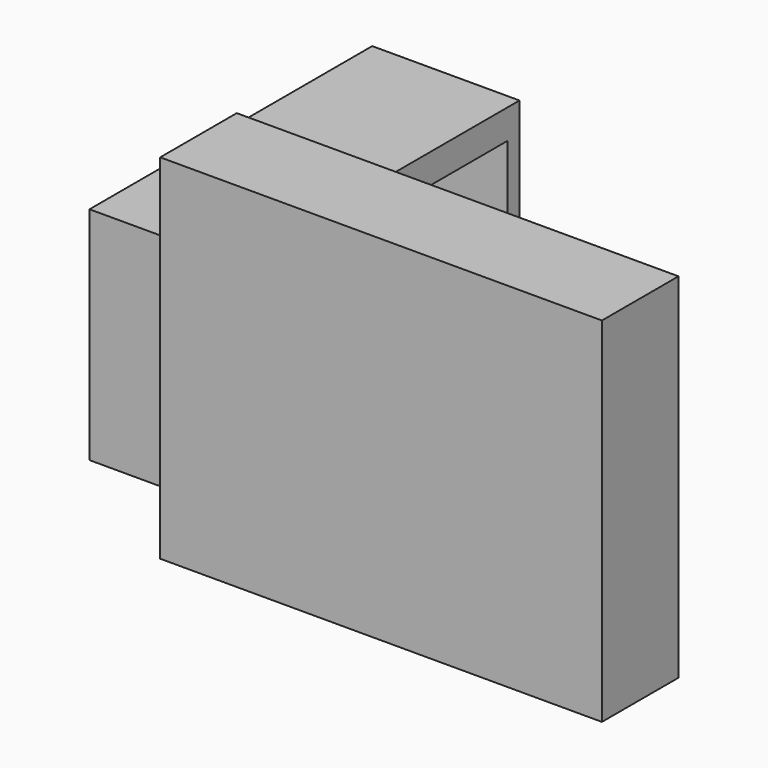
from build123d import *

# Parameters (mm, degrees)
F0_W     = 1473.2
F0_H     = 25.4
F0_H_2   = 355.6
F0_H_3   = 381
F1_DEPTH = 25.4
F2_DEPTH = 304.8
F4_W     = 508
F4_H     = 1219.2
F5_DEPTH = 101.6
F6_W     = 508
F6_H     = 50.8
F7_DEPTH = 660.4


with BuildPart() as f1:
    # F0 (on Front) → F1 (new body)
    with BuildSketch(Plane.XZ):
        with Locations((0, 215.9)):
            Rectangle(F0_W, F0_H)
        Polygon((762, -203.2), (762, 203.2), (736.6, 203.2), (736.6, -177.8), (736.6, -203.2), align=None)
        Polygon((-736.6, 203.2), (-762, 203.2), (-762, -203.2), (-736.6, -203.2), (-736.6, -177.8), align=None)
        Polygon((762, -609.6), (762, -203.2), (736.6, -203.2), (736.6, -584.2), (-736.6, -584.2), (-736.6, -203.2), (-762, -203.2), (-762, -609.6), align=None)
        Polygon((762, 203.2), (762, 609.6), (-762, 609.6), (-762, 203.2), (-736.6, 203.2), (-736.6, 228.6), (-736.6, 584.2), (736.6, 584.2), (736.6, 228.6), (736.6, 203.2), align=None)
        with Locations((0, 406.4)):
            Rectangle(F0_W, F0_H_2)
        with Locations((0, 12.7)):
            Rectangle(F0_W, F0_H_3)
        with Locations((0, -393.7)):
            Rectangle(F0_W, F0_H_3)
        with Locations((0, -190.5)):
            Rectangle(F0_W, F0_H)
    extrude(amount=F1_DEPTH)

    # F0 (on Front) → F2 (join)
    with BuildSketch(Plane.XZ):
        with Locations((0, 215.9)):
            Rectangle(F0_W, F0_H)
        Polygon((762, 203.2), (762, 609.6), (-762, 609.6), (-762, 203.2), (-736.6, 203.2), (-736.6, 228.6), (-736.6, 584.2), (736.6, 584.2), (736.6, 228.6), (736.6, 203.2), align=None)
        Polygon((-736.6, 203.2), (-762, 203.2), (-762, -203.2), (-736.6, -203.2), (-736.6, -177.8), align=None)
        Polygon((762, -203.2), (762, 203.2), (736.6, 203.2), (736.6, -177.8), (736.6, -203.2), align=None)
        with Locations((0, -190.5)):
            Rectangle(F0_W, F0_H)
        Polygon((762, -609.6), (762, -203.2), (736.6, -203.2), (736.6, -584.2), (-736.6, -584.2), (-736.6, -203.2), (-762, -203.2), (-762, -609.6), align=None)
    extrude(amount=-F2_DEPTH)



with BuildPart() as f5:
    # F4 (on offset) → F5 (new body)
    with BuildSketch(Plane.XY.offset(152.4)):
        with Locations((-1016, 914.4)):
            Rectangle(F4_W, F4_H)
    extrude(amount=-F5_DEPTH)


with BuildPart() as f1_1:
    add(f1.part)

    add(f5.part)  # F7 merges F5
    # F6 (on face) → F7 (join, through all)
    with BuildSketch(Plane(origin=(0, 0, 50.8), x_dir=(1, 0, 0), z_dir=(0, 0, -1))):
        with Locations((-1016, -1498.6)):
            Rectangle(F6_W, F6_H)
        with Locations((-1016, -330.2)):
            Rectangle(F6_W, F6_H)
    extrude(amount=F7_DEPTH)


solid = f1_1.part
